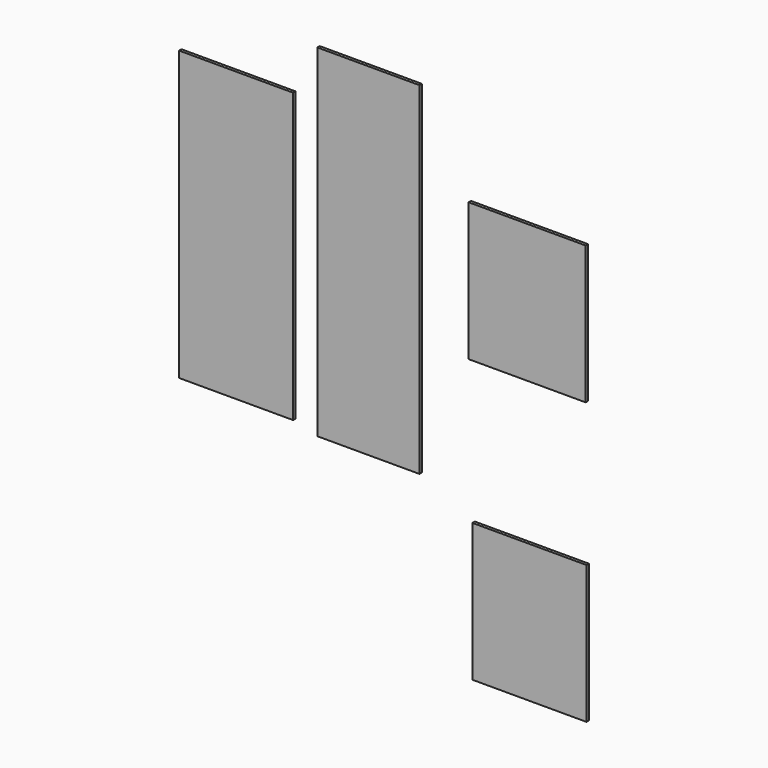
from build123d import *

# Parameters (mm, degrees)
F0_W     = 482.6
F0_H     = 1219.2
F0_W_2   = 431.8
F0_H_2   = 1447.8
F0_W_3   = 495.3
F0_H_3   = 584.2
F1_DEPTH = 12.7


with BuildPart() as f1:
    # F0 (on Front) → F1 (new body)
    with BuildSketch(Plane.XZ):
        with Locations((-582.253492, 124.63833)):
            Rectangle(F0_W, F0_H)
        with Locations((-22.874338, 212.214515)):
            Rectangle(F0_W_2, F0_H_2)
        with Locations((648.674345, 275.590432)):
            Rectangle(F0_W_3, F0_H_3)
        with Locations((658.495052, -913.200927)):
            Rectangle(F0_W, F0_H_3)
    extrude(amount=F1_DEPTH)


solid = f1.part
